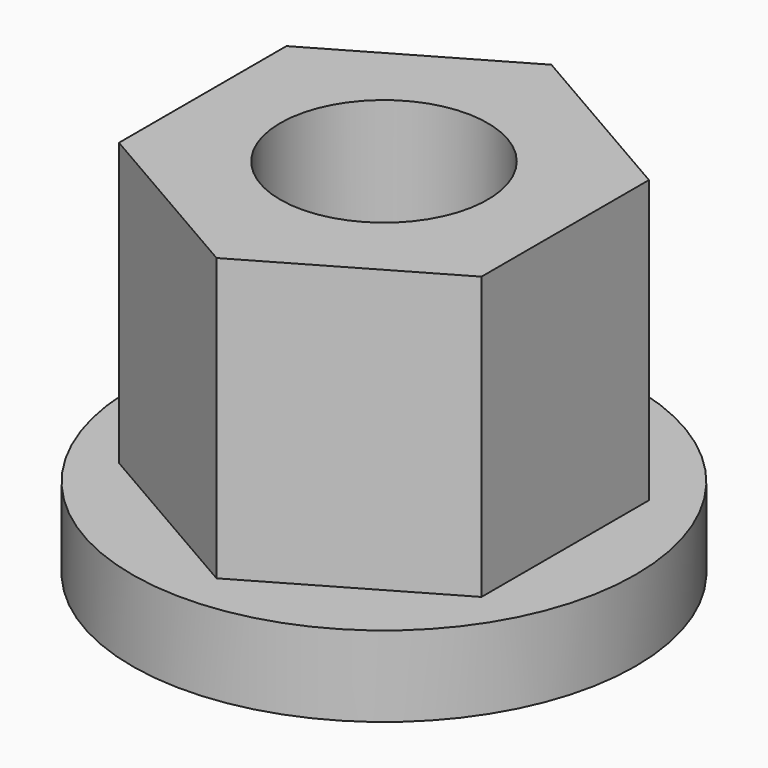
from build123d import *

# Parameters (mm, degrees)
F0_R     = 12.5
F1_DEPTH = 4
F3_DEPTH = 14
F5_D     = 10.3


with BuildPart() as f1:
    # F0 (on Top) → F1 (new body)
    with BuildSketch(Plane.XY):
        Circle(F0_R)
    extrude(amount=-F1_DEPTH)

    # F2 (on face) → F3 (join)
    with BuildSketch(Plane.XY):
        Polygon((9, -5.1961524227), (9, 5.1961524227), (0, 10.3923048454), (-9, 5.1961524227), (-9, -5.1961524227), (0, -10.3923048454), align=None)
    extrude(amount=F3_DEPTH)

    # F5 (through all)
    with Locations(Plane(origin=(0, 0, -4), x_dir=(1, 0, 0), z_dir=(0, 0, -1))):
        with Locations((0, 0)):
            Hole(F5_D / 2)


solid = f1.part
